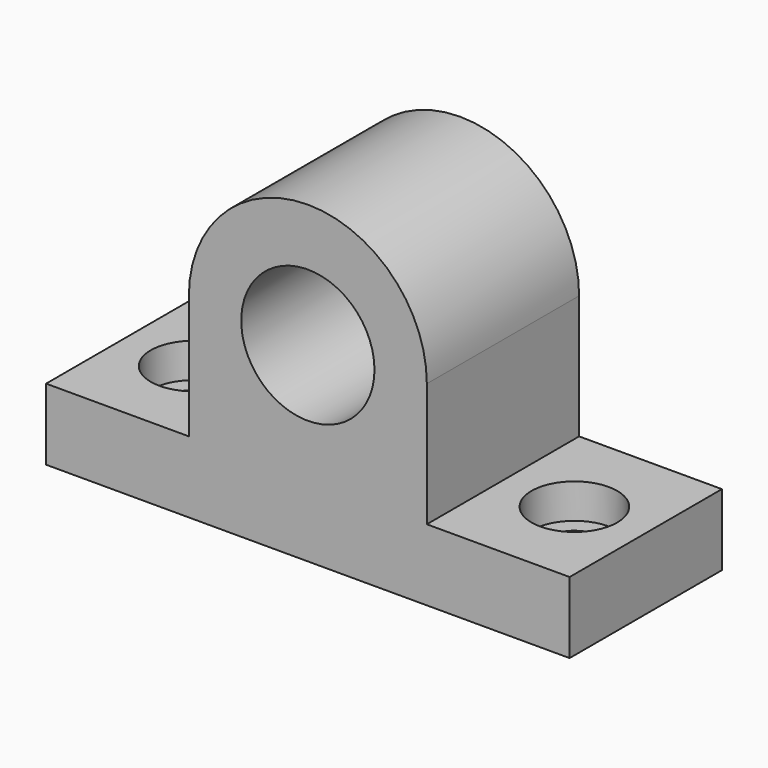
from build123d import *

# Parameters (mm, degrees)
F0_R     = 14
F1_DEPTH = 40
F2_R     = 9
F3_DEPTH = 7.3
F4_R     = 5.5
F5_R     = 5.5
F6_DEPTH = 25


with BuildPart() as f1:
    # F0 (on Front) → F1 (new body)
    with BuildSketch(Plane.XZ):
        with BuildLine():
            Line((-15.140404, -10.733506), (-45.140404, -10.733506))
            Line((-45.140404, -10.733506), (-45.140404, -25.733506))
            Line((-45.140404, -25.733506), (64.859596, -25.733506))
            Line((64.859596, -25.733506), (64.859596, -10.733506))
            Line((64.859596, -10.733506), (34.859596, -10.733506))
            Line((34.859596, -10.733506), (34.859596, 15.266494))
            ThreePointArc((34.859596, 15.266494), (9.859596, 40.266494), (-15.140404, 15.266494))
            Line((-15.140404, 15.266494), (-15.140404, -10.733506))
        make_face()
        with Locations((9.859596, 14.266494)):
            Circle(F0_R, mode=Mode.SUBTRACT)
    extrude(amount=F1_DEPTH)

    # F2 (on face) → F3 (cut)
    with BuildSketch(Plane.XY.offset(-10.733506)):
        with Locations((-30.140404, -20)):
            Circle(F2_R)
        with Locations((49.859596, -20)):
            Circle(F2_R)
    extrude(amount=-F3_DEPTH, mode=Mode.SUBTRACT)

    # F4 (on face) + F5 (on face) → F6 (cut)
    with BuildSketch(Plane.XY.offset(-18.033506)):
        with Locations((-30.140404, -20)):
            Circle(F4_R)
    with BuildSketch(Plane.XY.offset(-18.033506)):
        with Locations((49.859596, -20)):
            Circle(F5_R)
    extrude(amount=-F6_DEPTH, mode=Mode.SUBTRACT)


solid = f1.part
